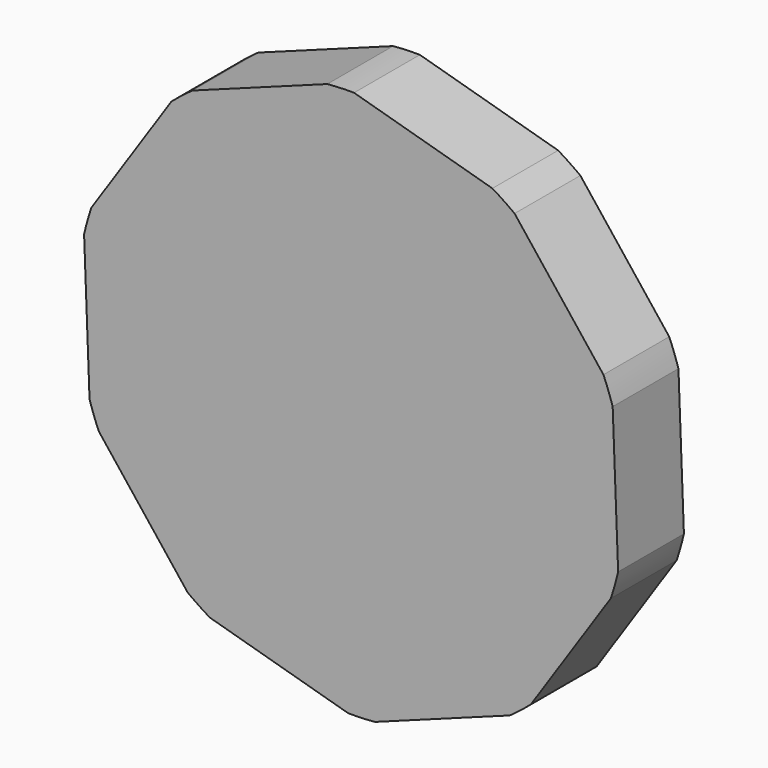
from build123d import *

# Parameters (mm, degrees)
F0_R     = 5
F1_DEPTH = 3
F2_R     = 10
F3_DEPTH = 3
F4_R     = 11.267003
F5_DEPTH = 25


with BuildPart() as f1:
    # F0 (on Front) → F1 (new body)
    with BuildSketch(Plane.XZ):
        Circle(F0_R)
    extrude(amount=F1_DEPTH)

    # F2 (on face) → F3 (join)
    with BuildSketch(Plane.XZ.offset(3)):
        Circle(F2_R)
    extrude(amount=F3_DEPTH)

    # F4 (on face) → F5 (cut)
    with BuildSketch(Plane.XZ.offset(6)):
        Circle(F4_R)
        Polygon((-6.271795, 7.976108), (-0.38575, 10.139275), (5.647638, 8.429584), (9.52382, 3.500078), (9.762227, -2.766338), (6.271795, -7.976108), (0.38575, -10.139275), (-5.647638, -8.429584), (-9.52382, -3.500078), (-9.762227, 2.766338), align=None, mode=Mode.SUBTRACT)
    extrude(amount=-F5_DEPTH, mode=Mode.SUBTRACT)


solid = f1.part
